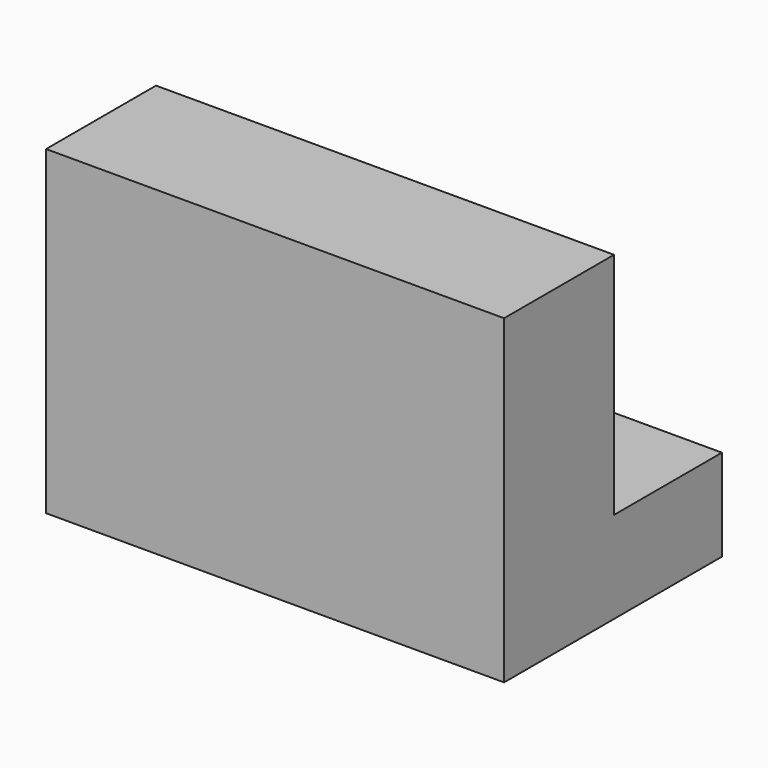
from build123d import *

# Parameters (mm, degrees)
F1_DEPTH = 100
F2_R     = 8.25
F3_DEPTH = 12.954
F4_R     = 3.5
F5_DEPTH = 20
F6_W     = 30
F6_H     = 29.45
F7_DEPTH = 20


with BuildPart() as f1:
    # F0 (on Right) → F1 (new body)
    with BuildSketch(Plane.YZ):
        Polygon((0, 0), (59.45, 0), (59.45, 20), (30, 20), (30, 70), (0, 70), align=None)
    extrude(amount=F1_DEPTH)

    # F2 (on face) → F3 (cut)
    with BuildSketch(Plane(origin=(0, 30, 0), x_dir=(-1, 0, 0), z_dir=(0, 1, 0))):
        with Locations((-80, 48.25)):
            Circle(F2_R)
        with Locations((-20, 48.25)):
            Circle(F2_R)
    extrude(amount=-F3_DEPTH, mode=Mode.SUBTRACT)

    # F4 (on face) → F5 (cut, through all)
    with BuildSketch(Plane.XY.offset(20)):
        with Locations((80, 44.45)):
            Circle(F4_R)
        with Locations((20, 44.45)):
            Circle(F4_R)
    extrude(amount=-F5_DEPTH, mode=Mode.SUBTRACT)

    # F6 (on face) → F7 (cut, through all)
    with BuildSketch(Plane.XY.offset(20)):
        with Locations((50, 44.725)):
            Rectangle(F6_W, F6_H)
    extrude(amount=-F7_DEPTH, mode=Mode.SUBTRACT)


solid = f1.part
